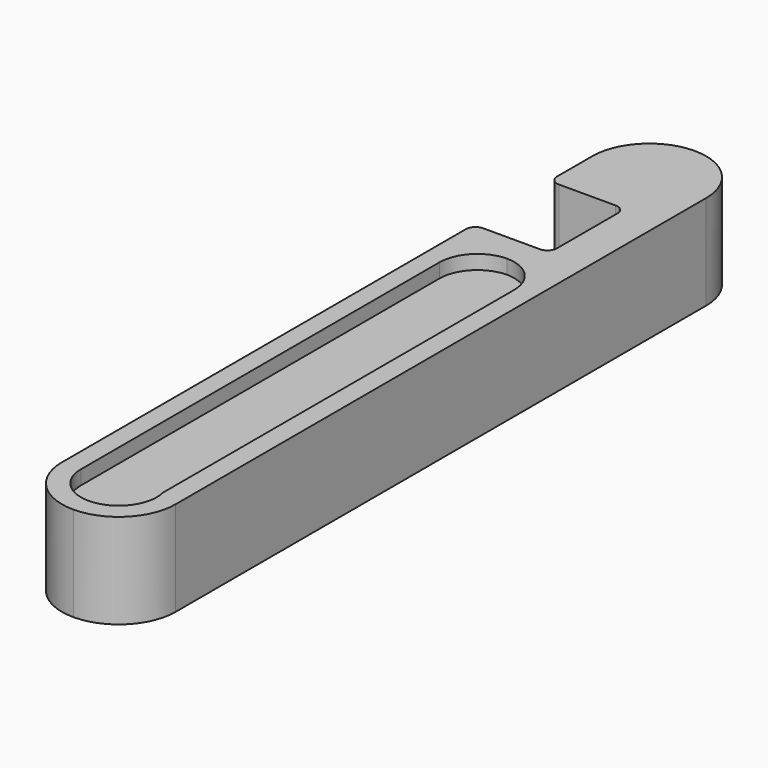
from build123d import *

# Parameters (mm, degrees)
F1_DEPTH = 5
F3_DEPTH = 1.5


with BuildPart() as f1:
    # F0 (on Top) → F1 (new body, symmetric)
    with BuildSketch(Plane.XY):
        with BuildLine():
            ThreePointArc((-5, 19.319071), (-5.707107, 19.026177), (-6, 18.319071))
            Line((-6, 18.319071), (-6, -35))
            ThreePointArc((-6, -35), (-4.242641, -39.242641), (0, -41))
            ThreePointArc((0, -41), (4.242641, -39.242641), (6, -35))
            Line((6, -35), (6, 35))
            ThreePointArc((6, 35), (4.242641, 39.242641), (0, 41))
            ThreePointArc((0, 41), (-4.242641, 39.242641), (-6, 35))
            Line((-6, 35), (-6, 30.319071))
            ThreePointArc((-6, 30.319071), (-5.707107, 29.611964), (-5, 29.319071))
            Line((-5, 29.319071), (1, 29.319071))
            ThreePointArc((1, 29.319071), (1.707107, 29.026177), (2, 28.319071))
            Line((2, 28.319071), (2, 20.319071))
            ThreePointArc((2, 20.319071), (1.707107, 19.611964), (1, 19.319071))
            Line((1, 19.319071), (-5, 19.319071))
        make_face()
    extrude(amount=F1_DEPTH, both=True)

    # F2 (on face) → F3 (cut, symmetric)
    with BuildSketch(Plane.XY.offset(5)):
        with BuildLine():
            Line((-4, 12.319071), (-4, -35))
            ThreePointArc((-4, -35), (-2.828427, -37.828427), (0, -39))
            ThreePointArc((0, -39), (3.145296, -37.471258), (3.886418, -34.053558))
            Line((3.886418, -34.053558), (3.886418, 12.319071))
            ThreePointArc((3.886418, 12.319071), (2.734853, 15.127347), (-0.056791, 16.318667))
            ThreePointArc((-0.056791, 16.318667), (-2.848435, 15.127347), (-4, 12.319071))
        make_face()
    extrude(amount=F3_DEPTH, both=True, mode=Mode.SUBTRACT)


solid = f1.part
